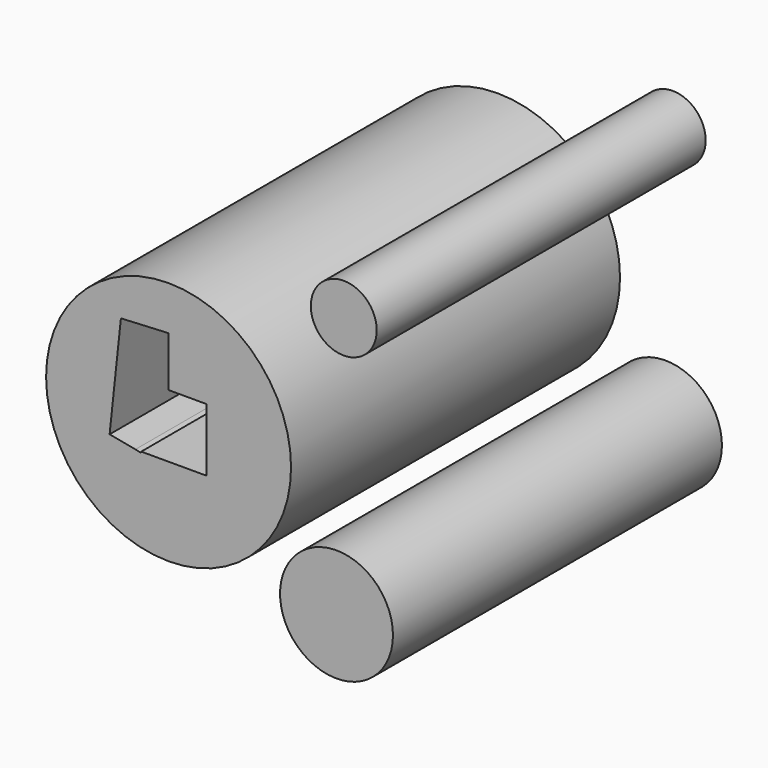
from build123d import *

# Parameters (mm, degrees)
F0_R     = 6.119839
F0_R_2   = 22.751995
F0_R_3   = 10.486808
F1_DEPTH = 76.3833
F3_DEPTH = 76.3843


with BuildPart() as f1:
    # F0 (on Front) → F1 (new body)
    with BuildSketch(Plane.XZ):
        with Locations((32.545641, 27.596302)):
            Circle(F0_R)
        Circle(F0_R_2)
        with Locations((31.195819, -21.297127)):
            Circle(F0_R_3)
    extrude(amount=F1_DEPTH)

    # F2 (on face) → F3 (cut, through all)
    with BuildSketch(Plane.XZ.offset(76.3833)):
        Polygon((-5.179621, -6.7035), (-5.078201, -6.464352), (7.0519, -6.464352), (7.0519, 5.251378), (0, 5.251378), (0, 14.55386), (-8.852348, 14.10374), (-10.952905, -5.551502), (-6.151631, -6.451741), align=None)
    extrude(amount=-F3_DEPTH, mode=Mode.SUBTRACT)


solid = f1.part
